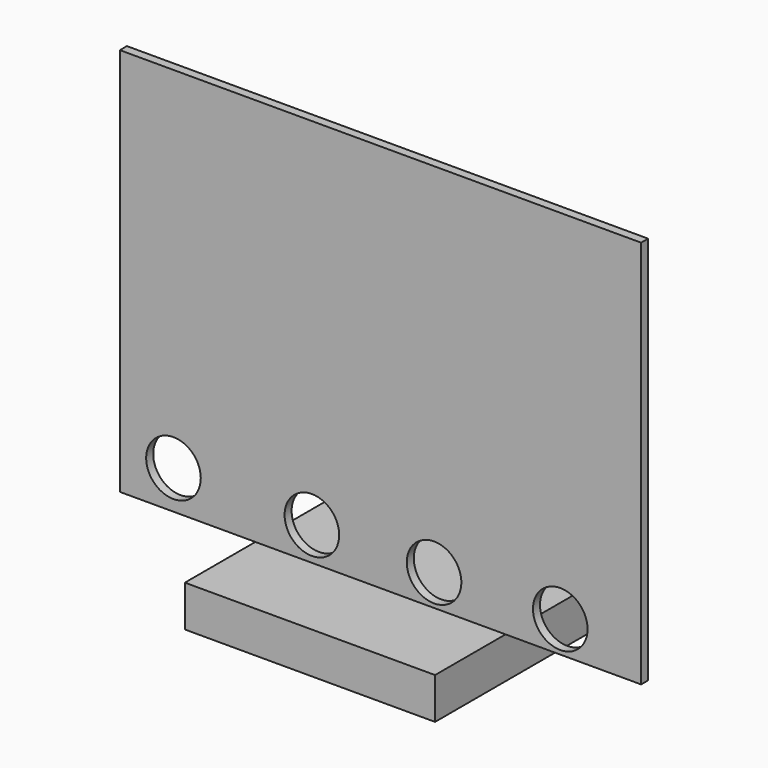
from build123d import *

# Parameters (mm, degrees)
F0_W     = 145.5268859315
F0_H     = 86.3008252195
F0_H_2   = 22.2802811749
F0_R     = 7.62
F1_DEPTH = 2.44635
F2_W     = 69.85
F2_H     = 57.1251641959
F3_DEPTH = 11.52041


with BuildPart() as f1:
    # F0 (on Front) → F1 (new body)
    with BuildSketch(Plane.XZ):
        with Locations((-0.5704797804, 11.6906483335)):
            Rectangle(F0_W, F0_H)
        with Locations((-0.5704797804, -42.5999048637)):
            Rectangle(F0_W, F0_H_2)
        with Locations((-58.3671236486, -43.0261560236)):
            Circle(F0_R, mode=Mode.SUBTRACT)
        with Locations((-19.7259581645, -44.4363020802)):
            Circle(F0_R, mode=Mode.SUBTRACT)
        with Locations((14.3898947656, -45.0035775064)):
            Circle(F0_R, mode=Mode.SUBTRACT)
        with Locations((49.6210166898, -44.9907229202)):
            Circle(F0_R, mode=Mode.SUBTRACT)
    extrude(amount=F1_DEPTH)

    # F2 (on face) → F3 (join)
    with BuildSketch(Plane(origin=(0, 0, -53.7400454511), x_dir=(1, 0, 0), z_dir=(0, 0, -1))):
        with Locations((-0.5825769186, -1.5191035345)):
            Rectangle(F2_W, F2_H)
    extrude(amount=F3_DEPTH)


solid = f1.part
